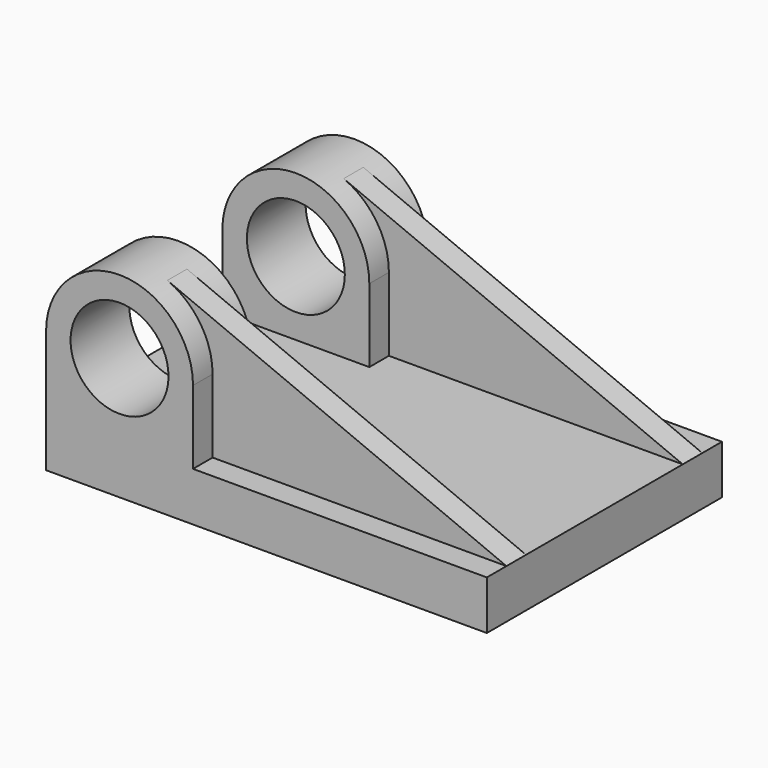
from build123d import *

# Parameters (mm, degrees)
SKETCH_W               = 90
SKETCH_H               = 60
PAD_DEPTH              = 10
PAD001_DEPTH           = 7.5
PAD002_DEPTH           = 2.5
LINEARPATTERN_COUNT    = 2
LINEARPATTERN_PITCH    = 45
LINEARPATTERN001_COUNT = 2
LINEARPATTERN001_PITCH = 45
SKETCH003_R            = 10
POCKET_DEPTH           = 60


with BuildPart() as part:
    # Sketch → Pad (new body)
    with BuildSketch(Plane.XY):
        with Locations((45, 30)):
            Rectangle(SKETCH_W, SKETCH_H)
    extrude(amount=PAD_DEPTH)

    # Sketch001 → Pad001 (join, symmetric)
    with BuildSketch(Plane.XZ.offset(-7.5)):
        with BuildLine():
            Line((0, 25), (0, 10))
            Line((0, 10), (30, 10))
            Line((30, 10), (30, 25))
            ThreePointArc((30, 25), (15, 40.000025), (0, 25))
        make_face()
    pad001 = extrude(amount=PAD001_DEPTH, both=True)

    # Sketch002 → Pad002 (join, symmetric)
    with BuildSketch(Plane.XZ.offset(-7.5)):
        with BuildLine():
            Line((30, 25), (30, 10))
            Line((30, 10), (90, 10))
            Line((20.769255, 38.846169), (90, 10))
            ThreePointArc((30, 25), (27.480768, 33.320507), (20.769255, 38.846169))
        make_face()
    pad002 = extrude(amount=PAD002_DEPTH, both=True)

    # LinearPattern: Pad001 ×2
    with Locations(*[(0, i * LINEARPATTERN_PITCH, 0) for i in range(1, LINEARPATTERN_COUNT)]):
        add(pad001)

    # LinearPattern001: Pad002 ×2
    with Locations(*[(0, i * LINEARPATTERN001_PITCH, 0) for i in range(1, LINEARPATTERN001_COUNT)]):
        add(pad002)

    # Sketch003 (on Face5 of LinearPattern001) → Pocket (cut)
    with BuildSketch(Plane.XZ):
        with Locations((15, 25.000025)):
            Circle(SKETCH003_R)
    extrude(amount=-POCKET_DEPTH, mode=Mode.SUBTRACT)


solid = part.part
